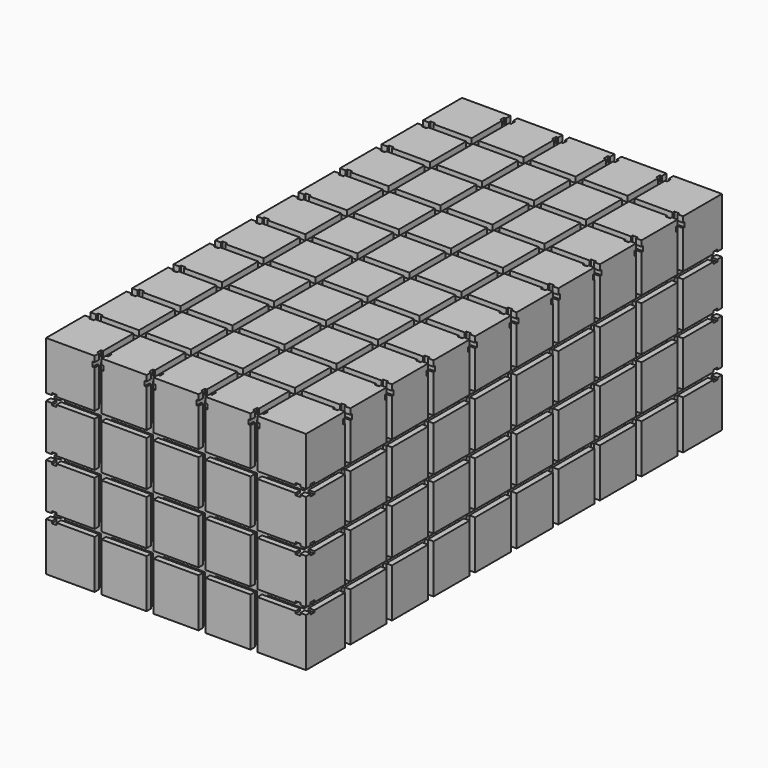
from build123d import *

# Parameters (mm, degrees)
F0_W     = 750
F0_H     = 1500
F1_DEPTH = 600
F3_DEPTH = 1500.001
F5_DEPTH = 750.001
F7_DEPTH = 10000
F8_W     = 590
F8_H     = 1340
F9_DEPTH = 520


with BuildPart() as f1:
    # F0 (on Top) → F1 (new body)
    with BuildSketch(Plane.XY):
        Rectangle(F0_W, F0_H)
    extrude(amount=-F1_DEPTH)

    # F2 (on face) → F3 (cut, through all)
    with BuildSketch(Plane.XZ.offset(750)):
        Polygon((-235, 10), (-235, 0), (-235, -16.46), (-240.815, -16.46), (-240.815, -30.16), (-225, -30.16), (-209.185, -30.16), (-209.185, -16.46), (-215, -16.46), (-215, 0), (-215, 10), (-225, 10), align=None)
        Polygon((-59.185, -30.16), (-59.185, -16.46), (-65, -16.46), (-65, 0), (-65, 10), (-75, 10), (-85, 10), (-85, 0), (-85, -16.46), (-90.815, -16.46), (-90.815, -30.16), (-75, -30.16), align=None)
        Polygon((90.815, -30.16), (90.815, -16.46), (85, -16.46), (85, 0), (85, 10), (75, 10), (65, 10), (65, 0), (65, -16.46), (59.185, -16.46), (59.185, -30.16), (75, -30.16), align=None)
        Polygon((240.815, -30.16), (240.815, -16.46), (235, -16.46), (235, 0), (235, 10), (225, 10), (215, 10), (215, 0), (215, -16.46), (209.185, -16.46), (209.185, -30.16), (225, -30.16), align=None)
        Polygon((-385, -160), (-375, -160), (-358.54, -160), (-358.54, -165.815), (-344.84, -165.815), (-344.84, -150), (-344.84, -134.185), (-358.54, -134.185), (-358.54, -140), (-375, -140), (-385, -140), (-385, -150), align=None)
        Polygon((-385, -310), (-375, -310), (-358.54, -310), (-358.54, -315.815), (-344.84, -315.815), (-344.84, -300), (-344.84, -284.185), (-358.54, -284.185), (-358.54, -290), (-375, -290), (-385, -290), (-385, -300), align=None)
        Polygon((-385, -460), (-375, -460), (-358.54, -460), (-358.54, -465.815), (-344.84, -465.815), (-344.84, -450), (-344.84, -434.185), (-358.54, -434.185), (-358.54, -440), (-375, -440), (-385, -440), (-385, -450), align=None)
        Polygon((358.54, -160), (375, -160), (385, -160), (385, -150), (385, -140), (375, -140), (358.54, -140), (358.54, -134.185), (344.84, -134.185), (344.84, -150), (344.84, -165.815), (358.54, -165.815), align=None)
        Polygon((375, -310), (385, -310), (385, -300), (385, -290), (375, -290), (358.54, -290), (358.54, -284.185), (344.84, -284.185), (344.84, -300), (344.84, -315.815), (358.54, -315.815), (358.54, -310), align=None)
        Polygon((375, -440), (358.54, -440), (358.54, -434.185), (344.84, -434.185), (344.84, -450), (344.84, -465.815), (358.54, -465.815), (358.54, -460), (375, -460), (385, -460), (385, -450), (385, -440), align=None)
    extrude(amount=-F3_DEPTH, mode=Mode.SUBTRACT)

    # F4 (on face) → F5 (cut, through all)
    with BuildSketch(Plane(origin=(-375, 0, 0), x_dir=(0, -1, 0), z_dir=(-1, 0, 0))):
        Polygon((-610, 49.866602), (-610, 0), (-610, -16.46), (-615.815, -16.46), (-615.815, -30.16), (-600, -30.16), (-584.185, -30.16), (-584.185, -16.46), (-590, -16.46), (-590, 0), (-590, 49.866602), (-600, 49.866602), align=None)
        Polygon((-450, -30.16), (-434.185, -30.16), (-434.185, -16.46), (-440, -16.46), (-440, 0), (-440, 49.866602), (-450, 49.866602), (-460, 49.866602), (-460, 0), (-460, -16.46), (-465.815, -16.46), (-465.815, -30.16), align=None)
        Polygon((-300, -30.16), (-284.185, -30.16), (-284.185, -16.46), (-290, -16.46), (-290, 0), (-290, 49.866602), (-300, 49.866602), (-310, 49.866602), (-310, 0), (-310, -16.46), (-315.815, -16.46), (-315.815, -30.16), align=None)
        Polygon((-150, -30.16), (-134.185, -30.16), (-134.185, -16.46), (-140, -16.46), (-140, 0), (-140, 49.866602), (-150, 49.866602), (-160, 49.866602), (-160, 0), (-160, -16.46), (-165.815, -16.46), (-165.815, -30.16), align=None)
        Polygon((0, -30.16), (15.815, -30.16), (15.815, -16.46), (10, -16.46), (10, 0), (10, 49.866602), (0, 49.866602), (-10, 49.866602), (-10, 0), (-10, -16.46), (-15.815, -16.46), (-15.815, -30.16), align=None)
        Polygon((150, -30.16), (165.815, -30.16), (165.815, -16.46), (160, -16.46), (160, 0), (160, 49.866602), (150, 49.866602), (140, 49.866602), (140, 0), (140, -16.46), (134.185, -16.46), (134.185, -30.16), align=None)
        Polygon((300, -30.16), (315.815, -30.16), (315.815, -16.46), (310, -16.46), (310, 0), (310, 49.866602), (300, 49.866602), (290, 49.866602), (290, 0), (290, -16.46), (284.185, -16.46), (284.185, -30.16), align=None)
        Polygon((450, -30.16), (465.815, -30.16), (465.815, -16.46), (460, -16.46), (460, 0), (460, 49.866602), (450, 49.866602), (440, 49.866602), (440, 0), (440, -16.46), (434.185, -16.46), (434.185, -30.16), align=None)
        Polygon((600, -30.16), (615.815, -30.16), (615.815, -16.46), (610, -16.46), (610, 0), (610, 49.866602), (600, 49.866602), (590, 49.866602), (590, 0), (590, -16.46), (584.185, -16.46), (584.185, -30.16), align=None)
        Polygon((-766.313672, -160), (-750, -160), (-733.54, -160), (-733.54, -165.815), (-719.84, -165.815), (-719.84, -150), (-719.84, -134.185), (-733.54, -134.185), (-733.54, -140), (-750, -140), (-766.313672, -140), (-766.313672, -150), align=None)
        Polygon((-719.84, -300), (-719.84, -284.185), (-733.54, -284.185), (-733.54, -290), (-750, -290), (-766.313672, -290), (-766.313672, -300), (-766.313672, -310), (-750, -310), (-733.54, -310), (-733.54, -315.815), (-719.84, -315.815), align=None)
        Polygon((-719.84, -450), (-719.84, -434.185), (-733.54, -434.185), (-733.54, -440), (-750, -440), (-766.313672, -440), (-766.313672, -450), (-766.313672, -460), (-750, -460), (-733.54, -460), (-733.54, -465.815), (-719.84, -465.815), align=None)
        Polygon((750, -290), (733.54, -290), (733.54, -284.185), (719.84, -284.185), (719.84, -300), (719.84, -315.815), (733.54, -315.815), (733.54, -310), (750, -310), (766.313672, -310), (766.313672, -300), (766.313672, -290), align=None)
        Polygon((733.54, -160), (750, -160), (766.313672, -160), (766.313672, -150), (766.313672, -140), (750, -140), (733.54, -140), (733.54, -134.185), (719.84, -134.185), (719.84, -150), (719.84, -165.815), (733.54, -165.815), align=None)
        Polygon((733.54, -465.815), (733.54, -460), (750, -460), (766.313672, -460), (766.313672, -450), (766.313672, -440), (750, -440), (733.54, -440), (733.54, -434.185), (719.84, -434.185), (719.84, -450), (719.84, -465.815), align=None)
    extrude(amount=-F5_DEPTH, mode=Mode.SUBTRACT)

    # F6 (on face) → F7 (cut, symmetric)
    with BuildSketch(Plane.XY.offset(-30.16)):
        Polygon((-235, 760), (-235, 750), (-235, 733.54), (-240.815, 733.54), (-240.815, 719.84), (-225, 719.84), (-209.185, 719.84), (-209.185, 733.54), (-215, 733.54), (-215, 750), (-215, 760), (-225, 760), align=None)
        Polygon((-85, 760), (-85, 750), (-85, 733.54), (-90.815, 733.54), (-90.815, 719.84), (-75, 719.84), (-59.185, 719.84), (-59.185, 733.54), (-65, 733.54), (-65, 750), (-65, 760), (-75, 760), align=None)
        Polygon((65, 760), (65, 750), (65, 733.54), (59.185, 733.54), (59.185, 719.84), (75, 719.84), (90.815, 719.84), (90.815, 733.54), (85, 733.54), (85, 750), (85, 760), (75, 760), align=None)
        Polygon((215, 760), (215, 750), (215, 733.54), (209.185, 733.54), (209.185, 719.84), (225, 719.84), (240.815, 719.84), (240.815, 733.54), (235, 733.54), (235, 750), (235, 760), (225, 760), align=None)
        Polygon((-385, 590), (-375, 590), (-358.54, 590), (-358.54, 584.185), (-344.84, 584.185), (-344.84, 600), (-344.84, 615.815), (-358.54, 615.815), (-358.54, 610), (-375, 610), (-385, 610), (-385, 600), align=None)
        Polygon((-385, 440), (-375, 440), (-358.54, 440), (-358.54, 434.185), (-344.84, 434.185), (-344.84, 450), (-344.84, 465.815), (-358.54, 465.815), (-358.54, 460), (-375, 460), (-385, 460), (-385, 450), align=None)
        Polygon((-385, 290), (-375, 290), (-358.54, 290), (-358.54, 284.185), (-344.84, 284.185), (-344.84, 300), (-344.84, 315.815), (-358.54, 315.815), (-358.54, 310), (-375, 310), (-385, 310), (-385, 300), align=None)
        Polygon((-385, 140), (-375, 140), (-358.54, 140), (-358.54, 134.185), (-344.84, 134.185), (-344.84, 150), (-344.84, 165.815), (-358.54, 165.815), (-358.54, 160), (-375, 160), (-385, 160), (-385, 150), align=None)
        Polygon((-385, -10), (-375, -10), (-358.54, -10), (-358.54, -15.815), (-344.84, -15.815), (-344.84, 0), (-344.84, 15.815), (-358.54, 15.815), (-358.54, 10), (-375, 10), (-385, 10), (-385, 0), align=None)
        Polygon((-385, -160), (-375, -160), (-358.54, -160), (-358.54, -165.815), (-344.84, -165.815), (-344.84, -150), (-344.84, -134.185), (-358.54, -134.185), (-358.54, -140), (-375, -140), (-385, -140), (-385, -150), align=None)
        Polygon((-385, -310), (-375, -310), (-358.54, -310), (-358.54, -315.815), (-344.84, -315.815), (-344.84, -300), (-344.84, -284.185), (-358.54, -284.185), (-358.54, -290), (-375, -290), (-385, -290), (-385, -300), align=None)
        Polygon((-385, -460), (-375, -460), (-358.54, -460), (-358.54, -465.815), (-344.84, -465.815), (-344.84, -450), (-344.84, -434.185), (-358.54, -434.185), (-358.54, -440), (-375, -440), (-385, -440), (-385, -450), align=None)
        Polygon((-385, -610), (-375, -610), (-358.54, -610), (-358.54, -615.815), (-344.84, -615.815), (-344.84, -600), (-344.84, -584.185), (-358.54, -584.185), (-358.54, -590), (-375, -590), (-385, -590), (-385, -600), align=None)
        Polygon((385, -290), (375, -290), (358.54, -290), (358.54, -284.185), (344.84, -284.185), (344.84, -300), (344.84, -315.815), (358.54, -315.815), (358.54, -310), (375, -310), (385, -310), (385, -300), align=None)
        Polygon((385, 610), (375, 610), (358.54, 610), (358.54, 615.815), (344.84, 615.815), (344.84, 600), (344.84, 584.185), (358.54, 584.185), (358.54, 590), (375, 590), (385, 590), (385, 600), align=None)
        Polygon((344.84, 134.185), (358.54, 134.185), (358.54, 140), (375, 140), (385, 140), (385, 150), (385, 160), (375, 160), (358.54, 160), (358.54, 165.815), (344.84, 165.815), (344.84, 150), align=None)
        Polygon((344.84, -15.815), (358.54, -15.815), (358.54, -10), (375, -10), (385, -10), (385, 0), (385, 10), (375, 10), (358.54, 10), (358.54, 15.815), (344.84, 15.815), (344.84, 0), align=None)
        Polygon((344.84, -615.815), (358.54, -615.815), (358.54, -610), (375, -610), (385, -610), (385, -600), (385, -590), (375, -590), (358.54, -590), (358.54, -584.185), (344.84, -584.185), (344.84, -600), align=None)
        Polygon((344.84, 284.185), (358.54, 284.185), (358.54, 290), (375, 290), (385, 290), (385, 300), (385, 310), (375, 310), (358.54, 310), (358.54, 315.815), (344.84, 315.815), (344.84, 300), align=None)
        Polygon((358.54, 434.185), (358.54, 440), (375, 440), (385, 440), (385, 450), (385, 460), (375, 460), (358.54, 460), (358.54, 465.815), (344.84, 465.815), (344.84, 450), (344.84, 434.185), align=None)
        Polygon((358.54, -134.185), (344.84, -134.185), (344.84, -150), (344.84, -165.815), (358.54, -165.815), (358.54, -160), (375, -160), (385, -160), (385, -150), (385, -140), (375, -140), (358.54, -140), align=None)
        Polygon((385, -440), (375, -440), (358.54, -440), (358.54, -434.185), (344.84, -434.185), (344.84, -450), (344.84, -465.815), (358.54, -465.815), (358.54, -460), (375, -460), (385, -460), (385, -450), align=None)
        Polygon((-90.815, -719.84), (-90.815, -733.54), (-85, -733.54), (-85, -750), (-85, -760), (-75, -760), (-65, -760), (-65, -750), (-65, -733.54), (-59.185, -733.54), (-59.185, -719.84), (-75, -719.84), align=None)
        Polygon((-235, -733.54), (-235, -750), (-235, -760), (-225, -760), (-215, -760), (-215, -750), (-215, -733.54), (-209.185, -733.54), (-209.185, -719.84), (-225, -719.84), (-240.815, -719.84), (-240.815, -733.54), align=None)
        Polygon((85, -750), (85, -733.54), (90.815, -733.54), (90.815, -719.84), (75, -719.84), (59.185, -719.84), (59.185, -733.54), (65, -733.54), (65, -750), (65, -760), (75, -760), (85, -760), align=None)
        Polygon((235, -750), (235, -733.54), (240.815, -733.54), (240.815, -719.84), (225, -719.84), (209.185, -719.84), (209.185, -733.54), (215, -733.54), (215, -750), (215, -760), (225, -760), (235, -760), align=None)
    extrude(amount=F7_DEPTH, both=True, mode=Mode.SUBTRACT)

    # F8 (on face) → F9 (cut)
    with BuildSketch(Plane(origin=(0, 0, -600), x_dir=(1, 0, 0), z_dir=(0, 0, -1))):
        Rectangle(F8_W, F8_H)
    extrude(amount=-F9_DEPTH, mode=Mode.SUBTRACT)


solid = f1.part
